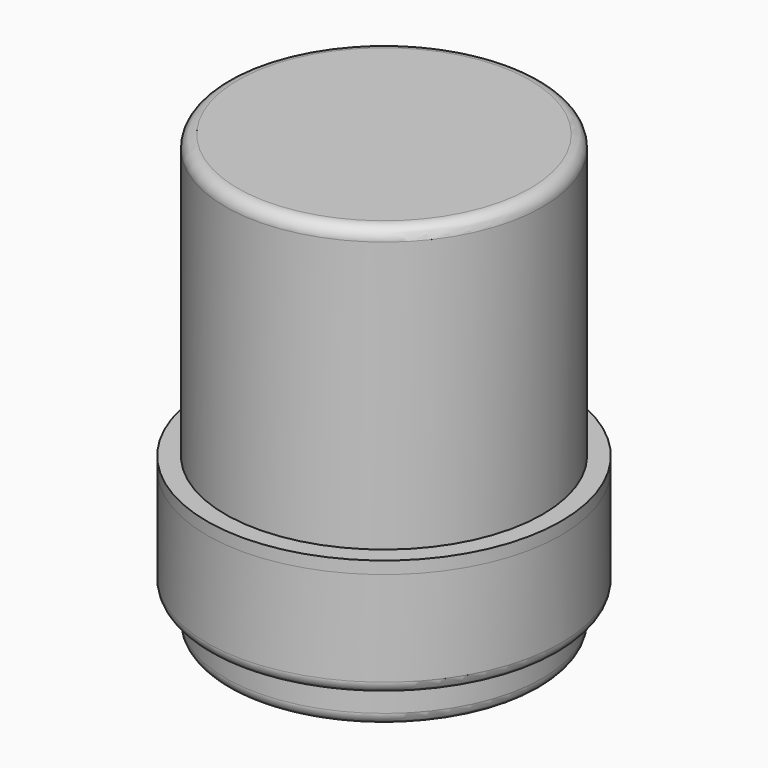
from build123d import *


with BuildPart() as f1:
    # F0 (on Front) → F1 (revolve)
    with BuildSketch(Plane.XZ):
        with BuildLine():
            Line((12, 9), (12, 1))
            ThreePointArc((12, 1), (11.707107, 0.292893), (11, 0))
            Line((11, 0), (6, 0))
            ThreePointArc((6, 0), (5.292893, 0.292893), (5, 1))
            Line((5, 1), (5, 74.5))
            Line((5, 74.5), (3.5, 74.5))
            Line((3.5, 74.5), (3.5, 0))
            Line((3.5, 0), (2, 0))
            Line((2, 0), (2, -3))
            Line((2, -3), (2, -14.867855))
            Line((2, -14.867855), (4, -14.867855))
            Line((4, -14.867855), (4, -3))
            Line((4, -3), (35.5, -3))
            ThreePointArc((35.5, -3), (37.62132, -2.12132), (38.5, 0))
            Line((38.5, 0), (38.5, 5))
            ThreePointArc((38.5, 5), (38.792893, 5.707107), (39.5, 6))
            Line((39.5, 6), (40, 6))
            ThreePointArc((40, 6), (42.12132, 6.87868), (43, 9))
            Line((43, 9), (43, 32))
            Line((43, 32), (40, 32))
            Line((40, 32), (40, 9))
            Line((40, 9), (36.5, 9))
            ThreePointArc((36.5, 9), (35.792893, 8.707107), (35.5, 8))
            Line((35.5, 8), (35.5, 1))
            ThreePointArc((35.5, 1), (35.207107, 0.292893), (34.5, 0))
            Line((34.5, 0), (15, 0))
            ThreePointArc((15, 0), (14.292893, 0.292893), (14, 1))
            Line((14, 1), (14, 9))
            Line((14, 9), (12, 9))
        make_face()
    revolve(axis=Axis((0, 0, 55.703663), (0, 0, 1)))


with BuildPart() as f3:
    # F2 (on Front) → F3 (revolve)
    with BuildSketch(Plane.XZ):
        with BuildLine():
            Line((35.5, 9), (36.5, 9))
            Line((36.5, 9), (38, 9))
            Line((38, 9), (40, 11))
            Line((40, 11), (40, 32))
            Line((40, 32), (43, 32))
            Line((43, 32), (43, 35))
            Line((43, 35), (38.5, 35))
            Line((38.5, 35), (38.5, 100.7))
            ThreePointArc((38.5, 100.7), (37.62132, 102.82132), (35.5, 103.7))
            Line((35.5, 103.7), (0, 103.7))
            Line((0, 103.7), (0, 100.7))
            Line((0, 100.7), (11, 100.7))
            ThreePointArc((11, 100.7), (11.707107, 100.407107), (12, 99.7))
            Line((12, 99.7), (12, 89))
            Line((12, 89), (14, 89))
            Line((14, 89), (14, 99.7))
            ThreePointArc((14, 99.7), (14.292893, 100.407107), (15, 100.7))
            Line((15, 100.7), (34.5, 100.7))
            ThreePointArc((34.5, 100.7), (35.207107, 100.407107), (35.5, 99.7))
            Line((35.5, 99.7), (35.5, 9))
        make_face()
    revolve(axis=Axis((0, 0, 55.703663), (0, 0, 1)))


solid = Compound([f1.part, f3.part])
